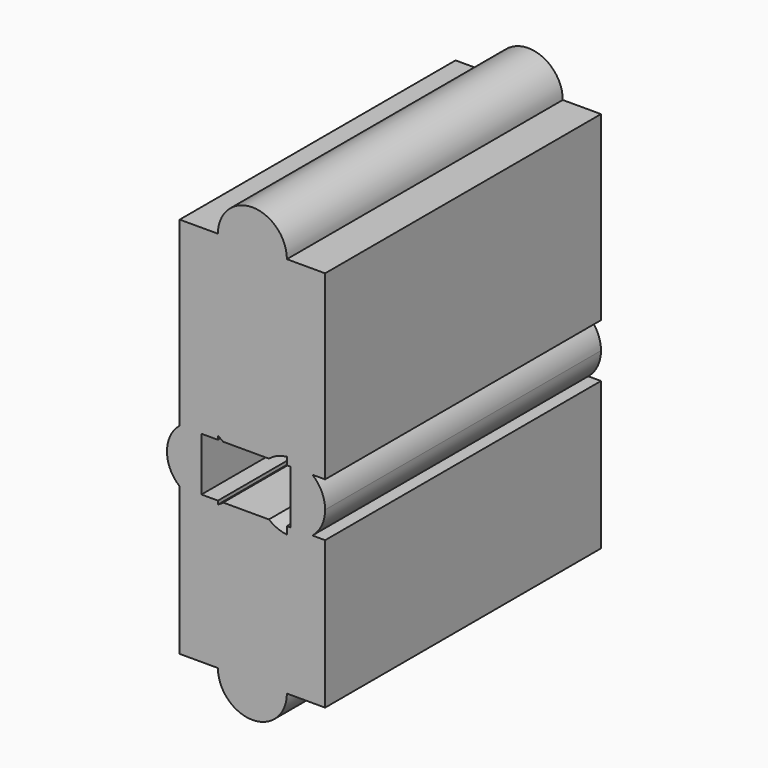
from build123d import *

# Parameters (mm, degrees)
F1_DEPTH = 25.4


with BuildPart() as f1:
    # F0 (on Front) → F1 (new body)
    with BuildSketch(Plane.XZ):
        with BuildLine():
            Line((-19.0646587873, 0), (-19.0646587873, -10.8574238314))
            Line((-19.0646587873, -10.8574238314), (-16.248551482, -10.8574238314))
            Line((-16.248551482, -10.8574238314), (-16.248551482, -0.2594655191))
            ThreePointArc((-16.248551482, -0.2594655191), (-17.6960554342, -0.5579063267), (-19.0646587873, 0))
        make_face()
        with BuildLine():
            ThreePointArc((-11.168551482, -10.8574238314), (-13.708551482, -8.3174238314), (-16.248551482, -10.8574238314))
            Line((-16.248551482, -10.8574238314), (-11.168551482, -10.8574238314))
        make_face()
        with BuildLine():
            Line((-16.248551482, -0.2594655191), (-16.248551482, -10.8574238314))
            ThreePointArc((-16.248551482, -10.8574238314), (-13.708551482, -8.3174238314), (-11.168551482, -10.8574238314))
            Line((-11.168551482, -10.8574238314), (-11.168551482, -0.5535677717))
            ThreePointArc((-11.168551482, -0.5535677717), (-11.8712675745, -0.3724419858), (-12.4940865083, 0))
            Line((-12.4940865083, 0), (-15.8613741242, 0))
            ThreePointArc((-15.8613741242, 0), (-16.0489988895, -0.1386321783), (-16.248551482, -0.2594655191))
        make_face()
        with BuildLine():
            Line((-11.168551482, -10.8574238314), (-16.248551482, -10.8574238314))
            ThreePointArc((-16.248551482, -10.8574238314), (-13.708551482, -13.3974238314), (-11.168551482, -10.8574238314))
        make_face()
        with BuildLine():
            ThreePointArc((-19.0646587873, 3.9427613886), (-20.0030164557, 1.9713806943), (-19.0646587873, 0))
            Line((-19.0646587873, 0), (-17.4630164557, 0))
            Line((-17.4630164557, 0), (-17.4630164557, 3.9427613886))
            Line((-17.4630164557, 3.9427613886), (-19.0646587873, 3.9427613886))
        make_face()
        with BuildLine():
            Line((-17.4630164557, 0), (-19.0646587873, 0))
            ThreePointArc((-19.0646587873, 0), (-17.6960554342, -0.5579063267), (-16.248551482, -0.2594655191))
            Line((-16.248551482, -0.2594655191), (-16.248551482, 0))
            Line((-16.248551482, 0), (-17.4630164557, 0))
        make_face()
        with BuildLine():
            Line((-11.168551482, -0.5535677717), (-11.168551482, -10.8574238314))
            Line((-11.168551482, -10.8574238314), (-8.3524441767, -10.8574238314))
            Line((-8.3524441767, -10.8574238314), (-8.3524441767, 0))
            Line((-8.3524441767, 0), (-9.2908018452, 0))
            ThreePointArc((-9.2908018452, 0), (-10.1742032033, -0.4649546488), (-11.168551482, -0.5535677717))
        make_face()
        with BuildLine():
            ThreePointArc((-16.248551482, 4.2022269076), (-17.6960554342, 4.5006677153), (-19.0646587873, 3.9427613886))
            Line((-19.0646587873, 3.9427613886), (-17.4630164557, 3.9427613886))
            Line((-17.4630164557, 3.9427613886), (-16.248551482, 3.9427613886))
            Line((-16.248551482, 3.9427613886), (-16.248551482, 4.2022269076))
        make_face()
        with BuildLine():
            Line((-19.0646587873, 17.3066876673), (-19.0646587873, 3.9427613886))
            ThreePointArc((-19.0646587873, 3.9427613886), (-17.6960554342, 4.5006677153), (-16.248551482, 4.2022269076))
            Line((-16.248551482, 4.2022269076), (-16.248551482, 17.3066876673))
            Line((-16.248551482, 17.3066876673), (-19.0646587873, 17.3066876673))
        make_face()
        with BuildLine():
            Line((-11.168551482, 0), (-11.168551482, -0.5535677717))
            ThreePointArc((-11.168551482, -0.5535677717), (-10.1742032033, -0.4649546488), (-9.2908018452, 0))
            Line((-9.2908018452, 0), (-10.8924441767, 0))
            Line((-10.8924441767, 0), (-11.168551482, 0))
        make_face()
        with BuildLine():
            Line((-16.248551482, 17.3066876673), (-16.248551482, 4.2022269076))
            ThreePointArc((-16.248551482, 4.2022269076), (-16.0489988895, 4.0813935669), (-15.8613741242, 3.9427613886))
            Line((-15.8613741242, 3.9427613886), (-12.4940865083, 3.9427613886))
            ThreePointArc((-12.4940865083, 3.9427613886), (-11.8712675745, 4.3152033744), (-11.168551482, 4.4963291603))
            Line((-11.168551482, 4.4963291603), (-11.168551482, 17.3066876673))
            ThreePointArc((-11.168551482, 17.3066876673), (-13.708551482, 14.7666876673), (-16.248551482, 17.3066876673))
        make_face()
        with BuildLine():
            Line((-10.8924441767, 0), (-9.2908018452, 0))
            ThreePointArc((-9.2908018452, 0), (-8.5990000939, 0.8797240455), (-8.3524441767, 1.9713806943))
            ThreePointArc((-8.3524441767, 1.9713806943), (-8.5990000939, 3.0630373431), (-9.2908018452, 3.9427613886))
            Line((-9.2908018452, 3.9427613886), (-10.8924441767, 3.9427613886))
            Line((-10.8924441767, 3.9427613886), (-10.8924441767, 0))
        make_face()
        with BuildLine():
            ThreePointArc((-11.168551482, 17.3066876673), (-13.708551482, 19.8466876673), (-16.248551482, 17.3066876673))
            Line((-16.248551482, 17.3066876673), (-11.168551482, 17.3066876673))
        make_face()
        with BuildLine():
            Line((-11.168551482, 17.3066876673), (-16.248551482, 17.3066876673))
            ThreePointArc((-16.248551482, 17.3066876673), (-13.708551482, 14.7666876673), (-11.168551482, 17.3066876673))
        make_face()
        with BuildLine():
            Line((-11.168551482, 4.4963291603), (-11.168551482, 3.9427613886))
            Line((-11.168551482, 3.9427613886), (-10.8924441767, 3.9427613886))
            Line((-10.8924441767, 3.9427613886), (-9.2908018452, 3.9427613886))
            ThreePointArc((-9.2908018452, 3.9427613886), (-10.1742032033, 4.4077160374), (-11.168551482, 4.4963291603))
        make_face()
        with BuildLine():
            Line((-8.3524441767, 17.3066876673), (-11.168551482, 17.3066876673))
            Line((-11.168551482, 17.3066876673), (-11.168551482, 4.4963291603))
            ThreePointArc((-11.168551482, 4.4963291603), (-10.1742032033, 4.4077160374), (-9.2908018452, 3.9427613886))
            Line((-9.2908018452, 3.9427613886), (-8.3524441767, 3.9427613886))
            Line((-8.3524441767, 3.9427613886), (-8.3524441767, 17.3066876673))
        make_face()
    extrude(amount=F1_DEPTH)


solid = f1.part
